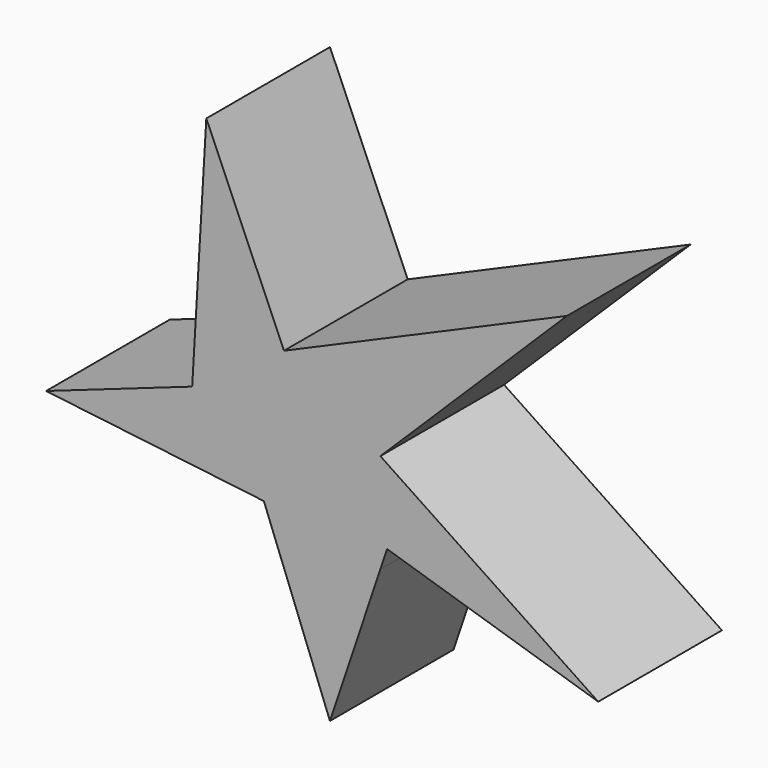
from build123d import *

# Parameters (mm, degrees)
F1_DEPTH = 25.4


with BuildPart() as f1:
    # F0 (on Front) → F1 (new body, symmetric)
    with BuildSketch(Plane.XZ):
        Polygon((0, -7.260618), (2.209697, -0.688518), (71.577795, -22.302875), (0, 25.454371), (61.308518, 85.952409), (-31.664561, 45.646154), (-57.191979, 104.529388), (-61.833249, 25.454371), (-109.835885, 8.574612), (-38.279932, 0), (-16.56682, -56.533791), align=None)
    extrude(amount=F1_DEPTH, both=True)


solid = f1.part
